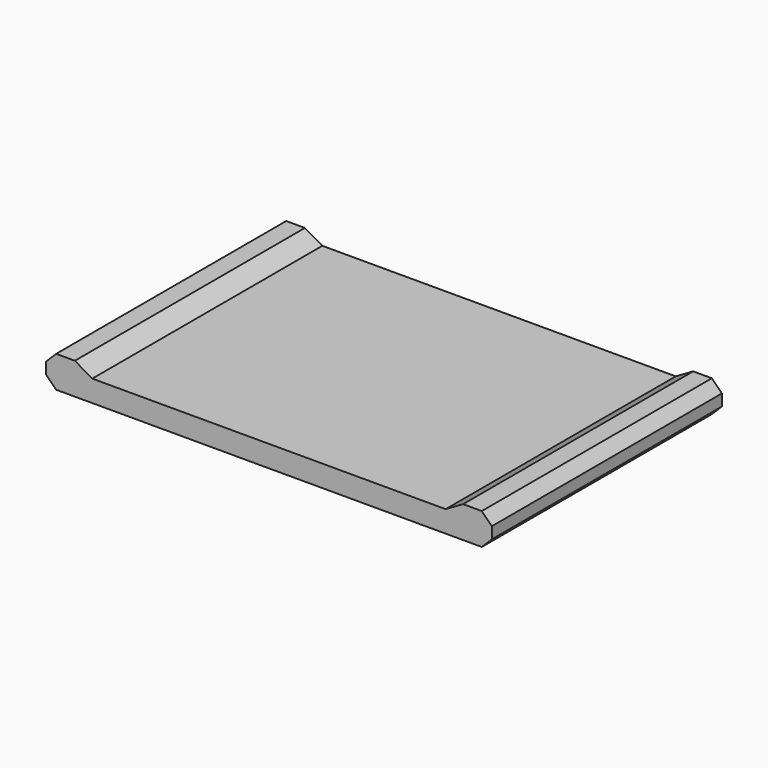
from build123d import *

# Parameters (mm, degrees)
PAD006_DEPTH = 10


with BuildPart() as part:
    # Sketch019 → Pad006 (new body, symmetric)
    with BuildSketch(Plane.XZ):
        Polygon((-39.762436, 0), (-38.55, 0.7), (-37.25, 0.7), (-36.55, 0), (-36.55, -0.8), (-37.25, -1.5), (-66.85, -1.5), (-67.55, -0.8), (-67.55, 0), (-66.85, 0.7), (-65.55, 0.7), (-64.337564, 0), align=None)
    extrude(amount=PAD006_DEPTH, both=True)


solid = part.part
